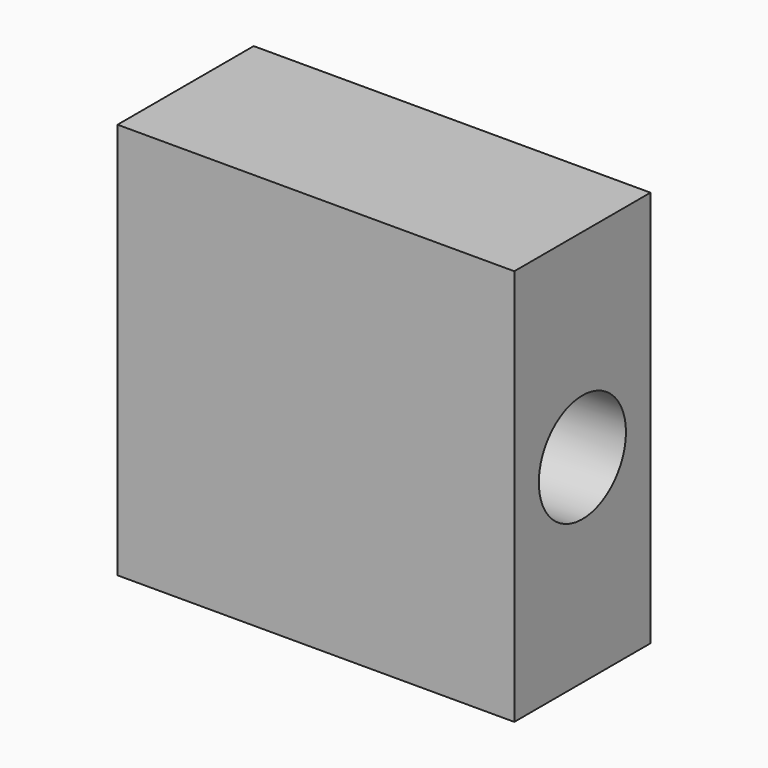
from build123d import *

# Parameters (mm, degrees)
F0_W     = 116.554148
F0_H     = 116.554148
F1_DEPTH = 50
F2_R     = 16
F3_DEPTH = 25


with BuildPart() as f1:
    # F0 (on Front) → F1 (new body)
    with BuildSketch(Plane.XZ):
        Rectangle(F0_W, F0_H)
    extrude(amount=F1_DEPTH)

    # F2 (on face) → F3 (cut)
    with BuildSketch(Plane.YZ.offset(58.277074)):
        with Locations((-25, 0)):
            Circle(F2_R)
    extrude(amount=-F3_DEPTH, mode=Mode.SUBTRACT)


solid = f1.part
